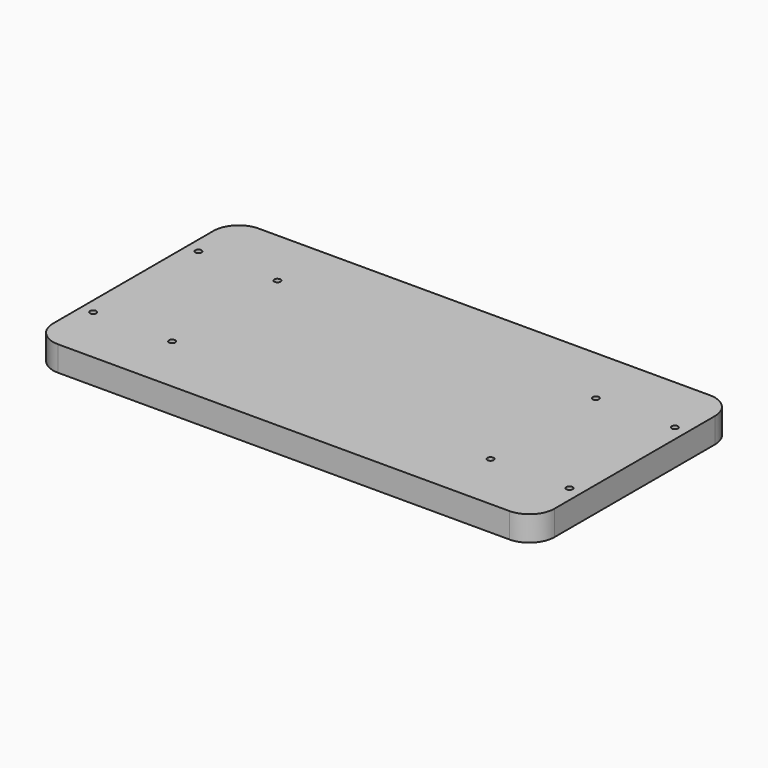
from build123d import *

# Parameters (mm, degrees)
F1_DEPTH = 25.4
F3_D     = 6.35


with BuildPart() as f1:
    # F0 (on Top) → F1 (new body)
    with BuildSketch(Plane.XY):
        with BuildLine():
            ThreePointArc((0, 25.4), (7.439488, 7.439488), (25.4, 0))
            Line((25.4, 0), (482.6, 0))
            ThreePointArc((482.6, 0), (500.560512, 7.439488), (508, 25.4))
            Line((508, 25.4), (508, 228.6))
            ThreePointArc((508, 228.6), (500.560512, 246.560512), (482.6, 254))
            Line((482.6, 254), (25.4, 254))
            ThreePointArc((25.4, 254), (7.439488, 246.560512), (0, 228.6))
            Line((0, 228.6), (0, 25.4))
        make_face()
    extrude(amount=F1_DEPTH)

    # F3 (through all)
    with Locations(Plane.XY.offset(25.4)):
        with Locations((12.7, 193.675), (92.71, 193.675), (92.71, 60.325), (12.7, 60.325), (415.29, 60.325), (495.3, 60.325), (495.3, 193.675), (415.29, 193.675)):
            Hole(F3_D / 2)


solid = f1.part
